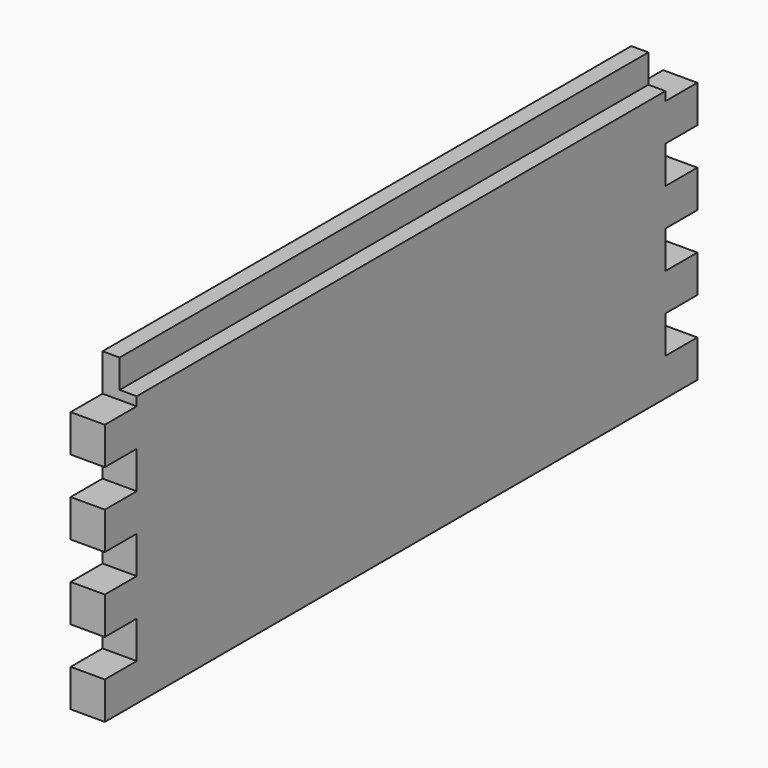
from build123d import *

# Parameters (mm, degrees)
F0_W     = 19.05
F0_H     = 166.624
F1_DEPTH = 206.375
F2_W     = 22.225
F2_H     = 20.828
F3_DEPTH = 19.051
F5_W     = 9.525
F5_H     = 15.875
F6_DEPTH = 412.751
F8_R     = 101.6
F9_DEPTH = 10.4902


with BuildPart() as f1:
    # F0 (on Front) → F1 (new body)
    with BuildSketch(Plane.XZ):
        with Locations((-9.525, 83.312)):
            Rectangle(F0_W, F0_H)
    extrude(amount=-F1_DEPTH)

    # F2 (on Right) → F3 (cut, through all)
    with BuildSketch(Plane.YZ):
        with Locations((11.1125, 31.242)):
            Rectangle(F2_W, F2_H)
        with Locations((11.1125, 72.898)):
            Rectangle(F2_W, F2_H)
        with Locations((11.1125, 114.554)):
            Rectangle(F2_W, F2_H)
        with Locations((11.1125, 156.21)):
            Rectangle(F2_W, F2_H)
    extrude(amount=-F3_DEPTH, mode=Mode.SUBTRACT)

    # F4: F1 across face


with BuildPart() as f1_1:
    add(f1.part)
    add(f1.part.mirror(Plane(origin=(-9.525, 206.375, 83.312), x_dir=(1, 0, 0), z_dir=(0, 1, 0))))

    # F5 (on Front) → F6 (cut, through all)
    with BuildSketch(Plane.XZ):
        with Locations((-4.7625, 158.6865)):
            Rectangle(F5_W, F5_H)
    extrude(amount=-F6_DEPTH, mode=Mode.SUBTRACT)

    # F8 (on offset) → F9 (cut, symmetric)
    with BuildSketch(Plane.XY.offset(76.2)):
        with Locations((-111.125, 195.2625)):
            Circle(F8_R)
    extrude(amount=F9_DEPTH, both=True, mode=Mode.SUBTRACT)


solid = f1_1.part
